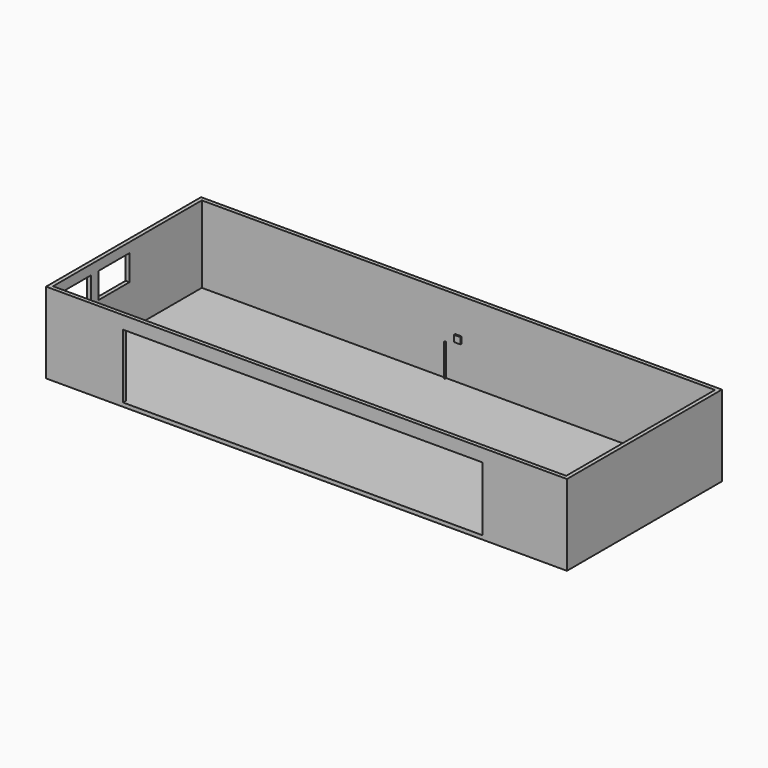
from build123d import *

# Parameters (mm, degrees)
F0_W      = 16000
F0_H      = 5800
F1_DEPTH  = 2400
F2_T      = 120
F3_W      = 1200
F3_H      = 800
F4_DEPTH  = 120
F5_W      = 2800
F5_H      = 2000
F6_DEPTH  = 1200
F7_W      = 200
F7_H      = 200
F8_DEPTH  = 50
F9_R      = 25
F10_DEPTH = 1000


with BuildPart() as f1:
    # F0 (on Top) → F1 (new body)
    with BuildSketch(Plane.XY):
        with Locations((8000, 2900)):
            Rectangle(F0_W, F0_H)
    extrude(amount=F1_DEPTH)

    # F2
    f2_openings = [f1.faces().sort_by_distance(p)[0] for p in [
        (8000, 2900, 2400),
    ]]
    offset(amount=F2_T, openings=f2_openings, kind=Kind.INTERSECTION)

    # F3 (on face) → F4 (cut)
    with BuildSketch(Plane(origin=(-120, 0, 0), x_dir=(0, -1, 0), z_dir=(-1, 0, 0))):
        with Locations((-2380, 1700)):
            Rectangle(F3_W, F3_H)
        with Locations((-880, 1700)):
            Rectangle(F3_W, F3_H)
    extrude(amount=-F4_DEPTH, mode=Mode.SUBTRACT)

    # F5 (on face) → F6 (cut)
    with BuildSketch(Plane.XZ.offset(120)):
        with Locations((3680, 1000)):
            Rectangle(F5_W, F5_H)
        with Locations((6480, 1000)):
            Rectangle(F5_W, F5_H)
        with Locations((9280, 1000)):
            Rectangle(F5_W, F5_H)
        with Locations((12080, 1000)):
            Rectangle(F5_W, F5_H)
    extrude(amount=-F6_DEPTH, mode=Mode.SUBTRACT)


with BuildPart() as f8:
    # F7 (on face) → F8 (new body)
    with BuildSketch(Plane.XZ.offset(-5800)):
        with Locations((8000, 1200)):
            Rectangle(F7_W, F7_H)
    extrude(amount=F8_DEPTH)


with BuildPart() as f10:
    # F9 (on face) → F10 (new body)
    with BuildSketch(Plane.XY):
        with Locations((7600, 5770)):
            Circle(F9_R)
    extrude(amount=F10_DEPTH)


solid = Compound([f1.part, f8.part, f10.part])
